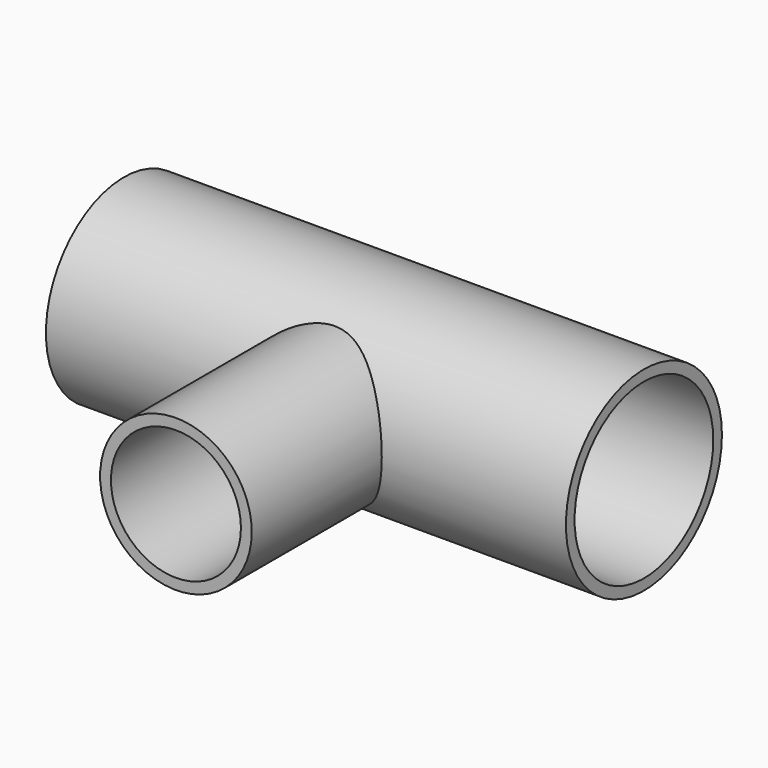
from build123d import *

# Parameters (mm, degrees)
F0_R          = 28.575
F1_DEPTH      = 76.2
F1_DEPTH_BACK = 76.2
F2_R          = 22.225
F2_R_2        = 19.05
F3_DEPTH      = 76.2
F4_R          = 25.4
F5_DEPTH      = 152.4


with BuildPart() as f1:
    # F0 (on Right) → F1 (new body, two sides)
    with BuildSketch(Plane.YZ) as f1_sk:
        Circle(F0_R)
    extrude(amount=F1_DEPTH)
    extrude(f1_sk.sketch, amount=-F1_DEPTH_BACK)

    # F2 (on Front) → F3 (join)
    with BuildSketch(Plane.XZ):
        Circle(F2_R)
        Circle(F2_R_2, mode=Mode.SUBTRACT)
    extrude(amount=F3_DEPTH)

    # F4 (on face) → F5 (cut)
    with BuildSketch(Plane.YZ.offset(76.2)):
        Circle(F4_R)
    extrude(amount=-F5_DEPTH, mode=Mode.SUBTRACT)


solid = f1.part
